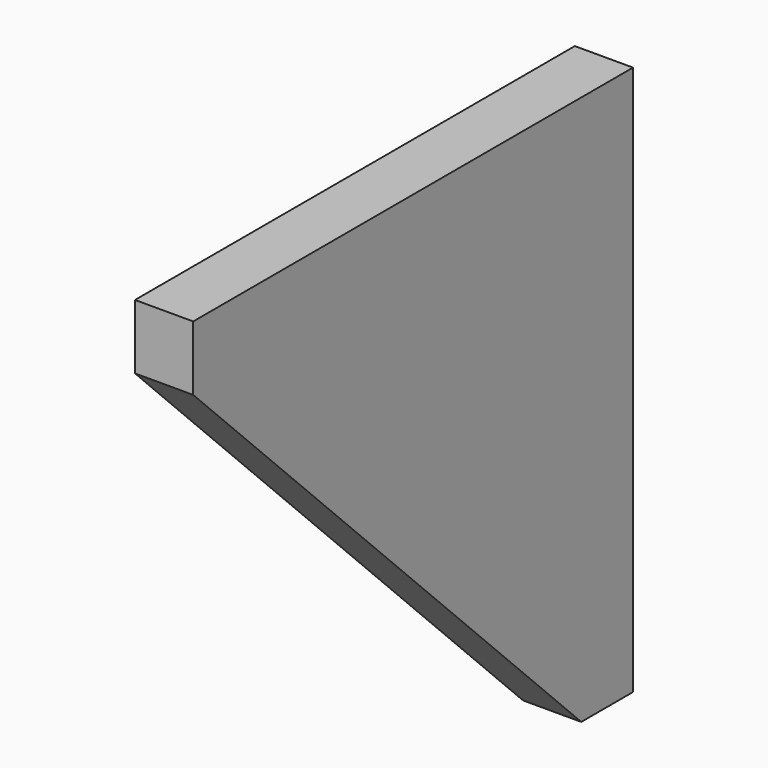
from build123d import *

# Parameters (mm, degrees)
PAD_DEPTH = 18


with BuildPart() as part:
    # Sketch → Pad (new body)
    with BuildSketch(Plane.YZ):
        Polygon((0, 170), (-170, 170), (-170, 150), (-20, 0), (0, 0), align=None)
    extrude(amount=PAD_DEPTH)


solid = part.part
